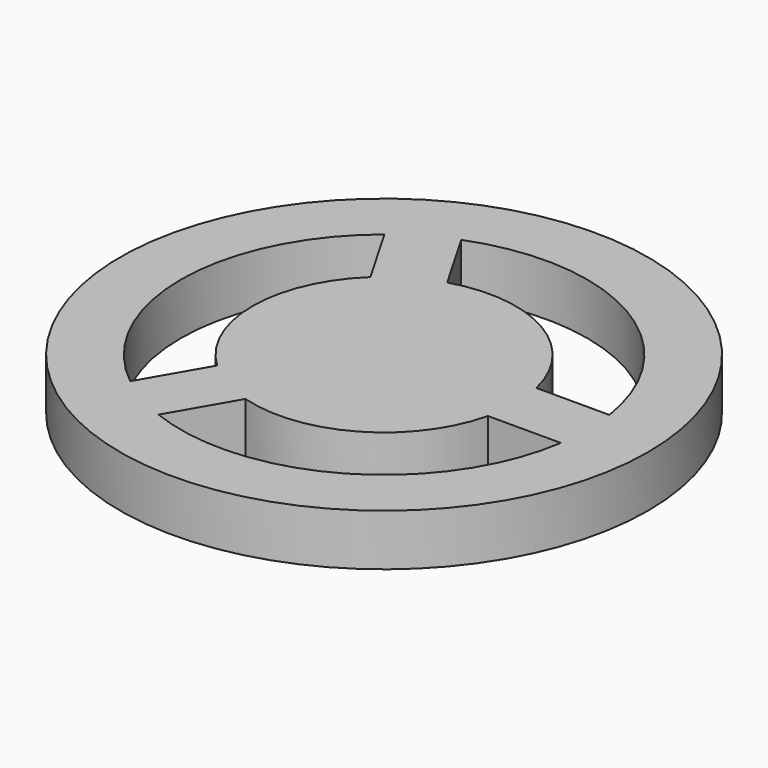
from build123d import *

# Parameters (mm, degrees)
F0_R     = 8.7
F1_DEPTH = 1.7


with BuildPart() as f1:
    # F0 (on Top) → F1 (new body)
    with BuildSketch(Plane.XY):
        Circle(F0_R)
        with BuildLine():
            Line((-4.178502, 5.237377), (-2.976663, 3.155732))
            ThreePointArc((-2.976663, 3.155732), (-4.338107, 0), (-2.976663, -3.155732))
            Line((-2.976663, -3.155732), (-4.178502, -5.237377))
            ThreePointArc((-4.178502, -5.237377), (-6.7, 0), (-4.178502, 5.237377))
        make_face(mode=Mode.SUBTRACT)
        with BuildLine():
            ThreePointArc((-1.244613, -4.155732), (2.169054, -3.756911), (4.221276, -1))
            Line((4.221276, -1), (6.624953, -1))
            ThreePointArc((6.624953, -1), (3.35, -5.80237), (-2.446451, -6.237377))
            Line((-2.446451, -6.237377), (-1.244613, -4.155732))
        make_face(mode=Mode.SUBTRACT)
        with BuildLine():
            Line((6.624953, 1), (4.221276, 1))
            ThreePointArc((4.221276, 1), (2.169054, 3.756911), (-1.244613, 4.155732))
            Line((-1.244613, 4.155732), (-2.446451, 6.237377))
            ThreePointArc((-2.446451, 6.237377), (3.35, 5.80237), (6.624953, 1))
        make_face(mode=Mode.SUBTRACT)
    extrude(amount=F1_DEPTH)


solid = f1.part
